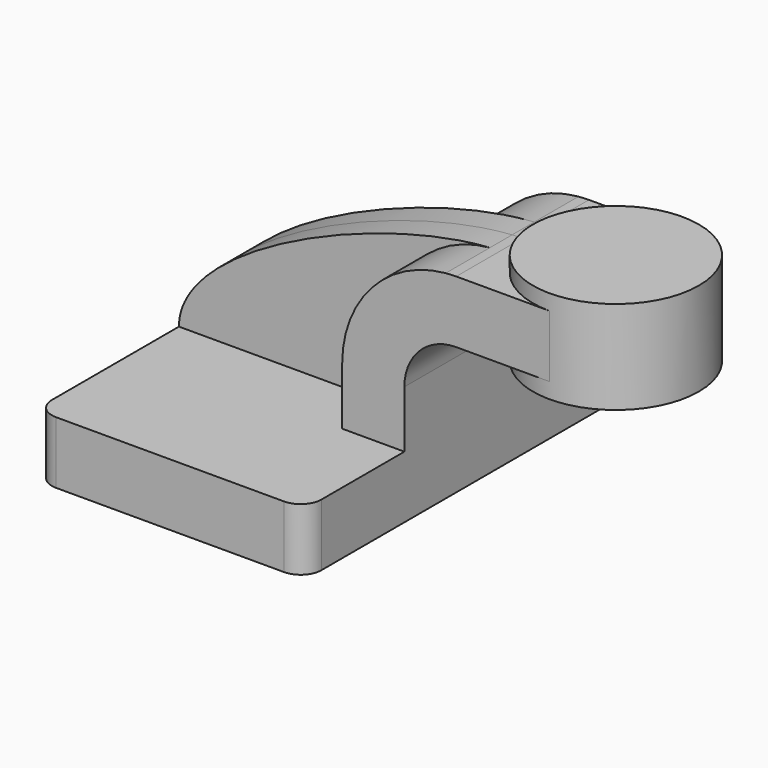
from build123d import *

# Parameters (mm, degrees)
F1_DEPTH = 63.5
F2_DEPTH = 25.4
F3_DEPTH = 8.509
F4_DEPTH = 25.4
F6_R     = 6.35


with BuildPart() as f1:
    # F0 (on Front) → F1 (new body, symmetric)
    with BuildSketch(Plane.XZ):
        Polygon((22.225, 9.525), (-41.275, 9.525), (-41.275, -9.525), (41.275, -9.525), (41.275, 9.525), align=None)
    extrude(amount=F1_DEPTH, both=True)

    # F0 (on Front) → F2 (join, symmetric)
    with BuildSketch(Plane.XZ):
        with BuildLine():
            Line((22.225, 27.0002), (22.225, 9.525))
            Line((22.225, 9.525), (41.275, 9.525))
            Line((41.275, 9.525), (41.275, 27.0002))
            ThreePointArc((41.275, 27.0002), (45.92468, 38.22552), (57.15, 42.8752))
            Line((57.15, 42.8752), (60.325, 42.8752))
            Line((60.325, 42.8752), (60.325, 61.9252))
            Line((60.325, 61.9252), (57.15, 61.9252))
            add(Edge.make_bspline(
                [(53.953536, 61.778616), (55.045402, 61.851231), (56.111784, 61.900361), (57.15, 61.9252)],
                knots=[108.105428, 108.105428, 108.105428, 108.105428, 111.504536, 111.504536, 111.504536, 111.504536], degree=3))
            ThreePointArc((53.953536, 61.778616), (31.348913, 50.53867), (22.225, 27.0002))
        make_face()
    extrude(amount=F2_DEPTH, both=True)

    # F0 (on Front) → F3 (join, symmetric)
    with BuildSketch(Plane.XZ):
        with BuildLine():
            add(Edge.make_bspline(
                [(-41.275, 9.525), (-41.275, 33.404525), (19.227765, 59.46916), (53.953536, 61.778616)],
                knots=[0, 0, 0, 0, 108.105428, 108.105428, 108.105428, 108.105428], degree=3))
            Line((-41.275, 9.525), (22.225, 9.525))
            Line((22.225, 9.525), (22.225, 27.0002))
            ThreePointArc((22.225, 27.0002), (31.348913, 50.53867), (53.953536, 61.778616))
        make_face()
    extrude(amount=F3_DEPTH, both=True)

    # F0 (on Front) → F4 (join, symmetric)
    with BuildSketch(Plane.XZ):
        Polygon((76.154022, 61.9252), (60.325, 61.9252), (60.325, 42.8752), (76.154022, 42.8752), (85.725, 42.8752), (85.725, 61.9252), align=None)
    extrude(amount=F4_DEPTH, both=True)

    # F0 (on Front) → F5 (revolve)
    with BuildSketch(Plane.XZ):
        Polygon((111.125, 66.675), (85.725, 66.675), (85.725, 61.9252), (85.725, 42.8752), (85.725, 38.1), (111.125, 38.1), align=None)
    revolve(axis=Axis((85.725, 0, 52.3875), (0, 0, -1)))

    # F6
    f6_edges = [f1.edges().sort_by_distance(p)[0] for p in [
        (-41.275, 63.5, 0),
        (41.275, 63.5, 0),
        (-41.275, -63.5, 0),
        (41.275, -63.5, 0),
    ]]
    fillet(f6_edges, radius=F6_R)


solid = f1.part
